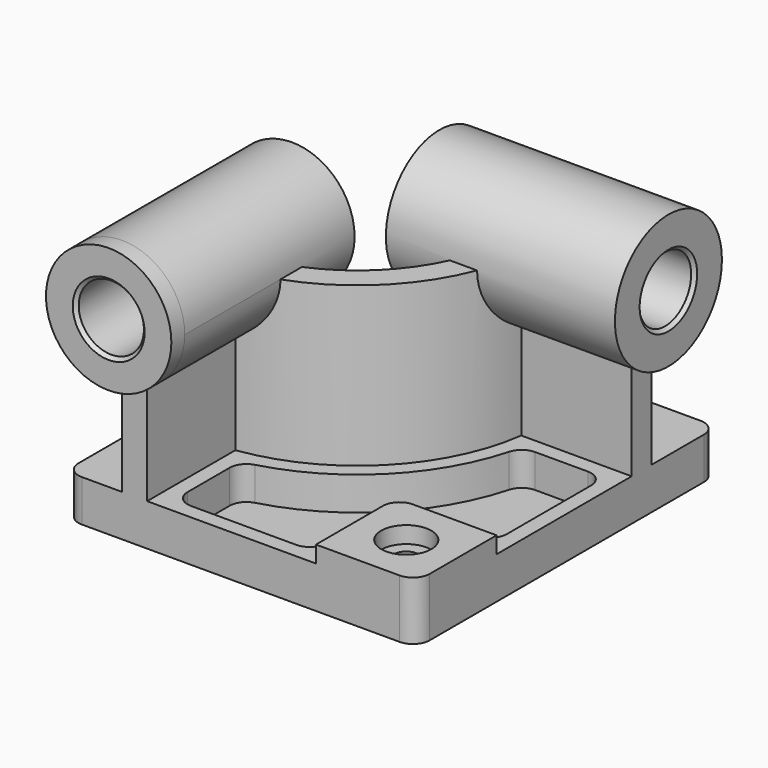
from build123d import *

# Parameters (mm, degrees)
F0_W            = 210
F0_H            = 225
F1_DEPTH        = 25
F3_DEPTH        = 95
F4_R            = 37.5
F5_DEPTH        = 10
F5_DEPTH_BACK   = 127
F6_R            = 40
F7_DEPTH        = 10
F7_DEPTH_BACK   = 127
F8_W            = 60
F8_H            = 60
F9_DEPTH        = 10
F10_R           = 10
F12_DEPTH       = 20
F14_D           = 15
F14_CBORE_D     = 30
F14_CBORE_DEPTH = 10
F15_R           = 10
F16_R           = 19.5
F17_DEPTH       = 235.001
F18_R           = 19.5
F19_DEPTH       = 223.501
F20_SIZE        = 2
F21_R           = 10


with BuildPart() as f1:
    # F0 (on Top) → F1 (new body)
    with BuildSketch(Plane.XY):
        Rectangle(F0_W, F0_H)
    extrude(amount=F1_DEPTH)

    # F2 (on face) → F3 (join)
    with BuildSketch(Plane.XY.offset(25)):
        with BuildLine():
            Line((-71, -32.5), (-71, -112.5))
            Line((-71, -112.5), (-56.000001, -112.5))
            Line((-56.000001, -112.5), (-56.000001, -46.481815))
            ThreePointArc((-56.000001, -46.481815), (7.488852, -14.988852), (38.981815, 48.500001))
            Line((38.981815, 48.500001), (105, 48.500001))
            Line((105, 48.500001), (105, 63.5))
            Line((105, 63.5), (25, 63.5))
            ThreePointArc((25, 63.5), (-3.117749, -4.382251), (-71, -32.5))
        make_face()
    extrude(amount=F3_DEPTH)

    # F4 (on face) → F5 (join, two sides)
    with BuildSketch(Plane.XZ.offset(112.5)) as f5_sk:
        with Locations((-71, 120)):
            Circle(F4_R)
    extrude(amount=F5_DEPTH)
    extrude(f5_sk.sketch, amount=-F5_DEPTH_BACK)

    # F6 (on face) → F7 (join, two sides)
    with BuildSketch(Plane.YZ.offset(105)) as f7_sk:
        with Locations((63.5, 120)):
            Circle(F6_R)
    extrude(amount=F7_DEPTH)
    extrude(f7_sk.sketch, amount=-F7_DEPTH_BACK)

    # F8 (on face) → F9 (join)
    with BuildSketch(Plane.XY.offset(25)):
        with Locations((75, -82.5)):
            Rectangle(F8_W, F8_H)
    extrude(amount=F9_DEPTH)

    # F10
    f10_edges = [f1.edges().sort_by_distance(p)[0] for p in [
        (45, -52.5, 30),
    ]]
    fillet(f10_edges, radius=F10_R)

    # F11 (on face) → F12 (cut)
    with BuildSketch(Plane.XY.offset(25)):
        with BuildLine():
            ThreePointArc((46.575506, 39.500001), (13.852813, -21.352813), (-47.000001, -54.075506))
            Line((-47.000001, -54.075506), (-47.000001, -103.5))
            Line((-47.000001, -103.5), (36, -103.5))
            Line((36, -103.5), (36, -62.5))
            ThreePointArc((36, -62.5), (41.564971, -49.064971), (55, -43.5))
            Line((55, -43.5), (96, -43.5))
            Line((96, -43.5), (96, 39.500001))
            Line((96, 39.500001), (46.575506, 39.500001))
        make_face()
    extrude(amount=-F12_DEPTH, mode=Mode.SUBTRACT)

    # F14 (through all)
    with Locations(Plane.XY.offset(35)):
        with Locations((75, -82.5)):
            CounterBoreHole(F14_D / 2, F14_CBORE_D / 2, F14_CBORE_DEPTH)

    # F15
    f15_edges = [f1.edges().sort_by_distance(p)[0] for p in [
        (-47.000001, -54.075506, 15),
        (46.575506, 39.500001, 15),
        (96, 39.500001, 15),
        (-47.000001, -103.5, 15),
        (36, -103.5, 15),
        (96, -43.5, 15),
    ]]
    fillet(f15_edges, radius=F15_R)

    # F16 (on face) → F17 (cut, through all)
    with BuildSketch(Plane.XZ.offset(122.5)):
        with Locations((-71, 120)):
            Circle(F16_R)
    extrude(amount=-F17_DEPTH, mode=Mode.SUBTRACT)

    # F18 (on face) → F19 (cut, through all)
    with BuildSketch(Plane.YZ.offset(115)):
        with Locations((63.5, 120)):
            Circle(F18_R)
    extrude(amount=-F19_DEPTH, mode=Mode.SUBTRACT)

    # F20
    f20_edges = [f1.edges().sort_by_distance(p)[0] for p in [
        (-90.5, -122.5, 120),
        (115, 44, 120),
        (-22, 44, 120),
        (-90.5, 14.5, 120),
    ]]
    chamfer(f20_edges, length=F20_SIZE)

    # F21
    f21_edges = [f1.edges().sort_by_distance(p)[0] for p in [
        (105, -112.5, 17.5),
        (105, 112.5, 12.5),
        (-105, -112.5, 12.5),
        (-105, 112.5, 12.5),
    ]]
    fillet(f21_edges, radius=F21_R)


solid = f1.part
